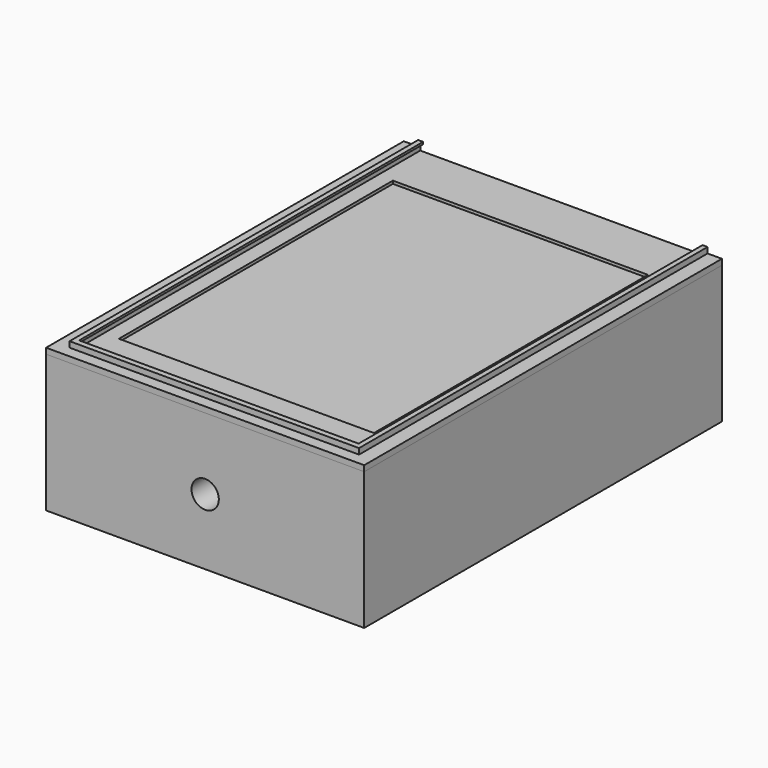
from build123d import *

# Parameters (mm, degrees)
F0_W      = 97.5
F0_H      = 150
F0_W_2    = 89
F0_H_2    = 119.5
F1_DEPTH  = 0.5
F3_DEPTH  = 1
F5_DEPTH  = 3
F6_W      = 150
F6_H      = 2.25
F7_DEPTH  = 1
F8_W      = 150
F8_H      = 2.25
F9_DEPTH  = 1
F10_W     = 111
F10_H     = 48
F11_DEPTH = 156
F13_D     = 9.525
F13_DEPTH = 9.5
F13_TIP   = 2.8615986981


with BuildPart() as f1:
    # F0 (on Top) → F1 (new body, symmetric)
    with BuildSketch(Plane.XY):
        Polygon((-50.5, -77), (-50.5, 75), (-55.5, 75), (-55.5, -81), (55.5, -81), (55.5, 75), (50.5, 75), (50.5, -77), align=None)
        Rectangle(F0_W, F0_H)
        with Locations((0, -3.25)):
            Rectangle(F0_W_2, F0_H_2, mode=Mode.SUBTRACT)
        Polygon((-48.75, -75), (-48.75, 75), (-50.5, 75), (-50.5, -77), (50.5, -77), (50.5, 75), (48.75, 75), (48.75, -75), align=None)
    extrude(amount=F1_DEPTH, both=True)

    # F2 (on face) → F3 (join)
    with BuildSketch(Plane.XY.offset(0.5)):
        Polygon((-50.5, -77), (-50.5, 75), (-55.5, 75), (-55.5, -81), (55.5, -81), (55.5, 75), (50.5, 75), (50.5, -77), align=None)
    extrude(amount=F3_DEPTH)

    # F4 (on face) → F5 (join)
    with BuildSketch(Plane.XY.offset(0.5)):
        Polygon((-48.75, -75), (-48.75, 75), (-50.5, 75), (-50.5, -77), (50.5, -77), (50.5, 75), (48.75, 75), (48.75, -75), align=None)
    extrude(amount=F5_DEPTH)

    # F6 (on face) → F7 (cut)
    with BuildSketch(Plane.YZ.offset(-48.75)):
        with Locations((0, 1.625)):
            Rectangle(F6_W, F6_H)
    extrude(amount=-F7_DEPTH, mode=Mode.SUBTRACT)

    # F8 (on face) → F9 (cut)
    with BuildSketch(Plane(origin=(48.75, 0, 0), x_dir=(0, -1, 0), z_dir=(-1, 0, 0))):
        with Locations((0, 1.625)):
            Rectangle(F8_W, F8_H)
    extrude(amount=-F9_DEPTH, mode=Mode.SUBTRACT)


with BuildPart() as f11:
    # F10 (on face) → F11 (new body)
    with BuildSketch(Plane.XZ.offset(81)):
        with Locations((0, -24.5)):
            Rectangle(F10_W, F10_H)
    extrude(amount=-F11_DEPTH)

    # F13
    with Locations(Plane.XZ.offset(81)):
        with Locations((0, -25.5)):
            Hole(F13_D / 2, depth=F13_DEPTH)
            with Locations((0, 0, -(F13_DEPTH + F13_TIP / 2))):  # 118° drill point
                Cone(0, F13_D / 2, F13_TIP, mode=Mode.SUBTRACT)


solid = Compound([f1.part, f11.part])
